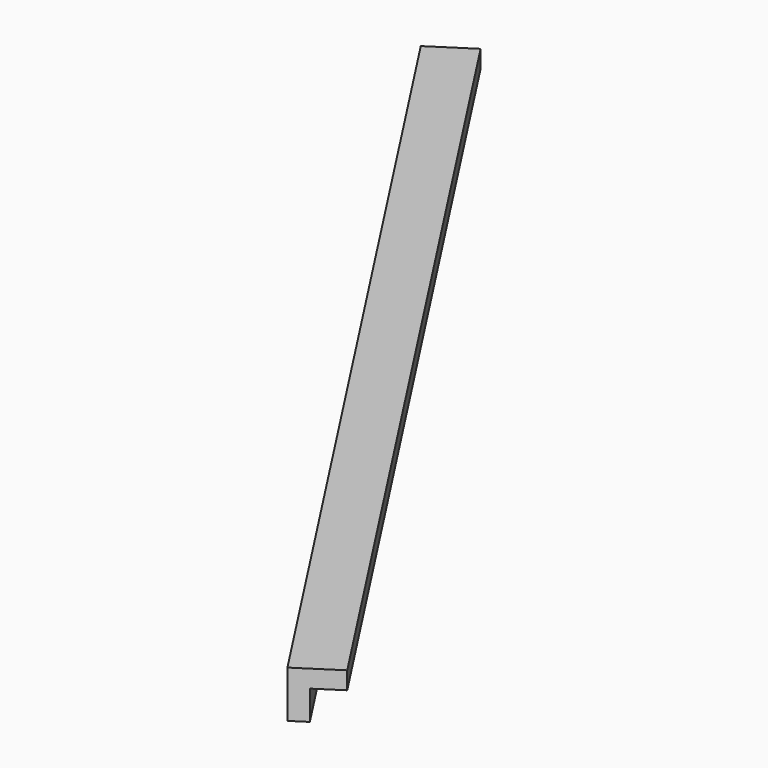
from build123d import *

# Parameters (mm, degrees)
BOX161_W               = 0.8
BOX161_H               = 18
BOX161_DEPTH           = 0.8
BOX162_W               = 0.8
BOX162_H               = 18
BOX162_DEPTH           = 0.8
CUT084_PLACEMENT_ANGLE = 213


with BuildPart() as cubo161:
    # Box161 → Box161 (new body)
    with BuildSketch(Plane.XY):
        with Locations((0.4, 9)):
            Rectangle(BOX161_W, BOX161_H)
    extrude(amount=BOX161_DEPTH)


with BuildPart() as obj1:
    # Box162 → Box162 (new body)
    with BuildSketch(Plane(origin=(0.3, 0, 0.3), x_dir=(1, 0, 0), z_dir=(0, 0, 1))):
        with Locations((0.4, 9)):
            Rectangle(BOX162_W, BOX162_H)
    extrude(amount=BOX162_DEPTH)

    # Cut084: cut Cubo161
    add(cubo161.part, mode=Mode.SUBTRACT)


with BuildPart() as obj1_1:
    # Cut084 placement: moved
    add(obj1.part.moved(Location((-213.5, 93.2, -1.45))).rotate(Axis((-213.5, 93.2, -1.45), (0, 0, 1)), CUT084_PLACEMENT_ANGLE))


solid = obj1_1.part
